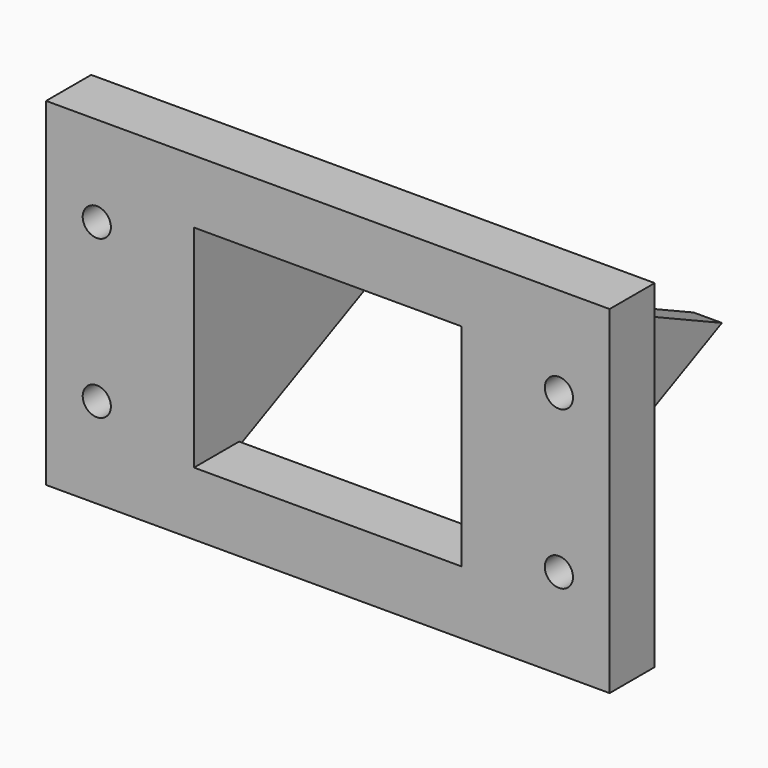
from build123d import *

# Parameters (mm, degrees)
F0_R     = 1.5875
F1_DEPTH = 6.35
F3_DEPTH = 3.175
F5_DEPTH = 3.175


with BuildPart() as f1:
    # F0 (on Front) → F1 (new body)
    with BuildSketch(Plane.XZ):
        Polygon((0, 19.05), (0, 0), (27.627938, 0), (27.627938, 7.14375), (16.66875, 7.14375), (16.66875, 19.05), align=None)
        with Locations((5.715, 10.16)):
            Circle(F0_R, mode=Mode.SUBTRACT)
        Polygon((27.627938, 7.14375), (27.627938, 0), (63.5, 0), (63.5, 22.522444), (46.83125, 22.522444), (46.83125, 7.14375), align=None)
        with Locations((57.785, 10.16)):
            Circle(F0_R, mode=Mode.SUBTRACT)
        Polygon((0, 38.1), (0, 19.05), (16.66875, 19.05), (16.66875, 30.95625), (31.060793, 30.95625), (31.060793, 38.1), align=None)
        with Locations((5.715, 27.94)):
            Circle(F0_R, mode=Mode.SUBTRACT)
        Polygon((46.83125, 22.522444), (63.5, 22.522444), (63.5, 38.1), (31.060793, 38.1), (31.060793, 30.95625), (46.83125, 30.95625), align=None)
        with Locations((57.785, 27.94)):
            Circle(F0_R, mode=Mode.SUBTRACT)
    extrude(amount=F1_DEPTH)

    # F2 (on face) → F3 (join)
    with BuildSketch(Plane.YZ.offset(16.66875)):
        Polygon((25.556482, 19.414963), (0.168447, 31.315604), (0, 31.394564), (0, 30.95625), (0, 7.14375), (0, 6.705436), (0.168447, 6.784396), (25.566136, 18.689563), (26.335069, 19.05), align=None)
    extrude(amount=-F3_DEPTH)

    # F4 (on face) → F5 (join)
    with BuildSketch(Plane(origin=(46.83125, 0, 0), x_dir=(0, -1, 0), z_dir=(-1, 0, 0))):
        Polygon((-0.168447, 31.315604), (-26.335069, 19.05), (-0.168447, 6.784396), (0, 6.705436), (0, 31.394564), align=None)
    extrude(amount=-F5_DEPTH)


solid = f1.part
